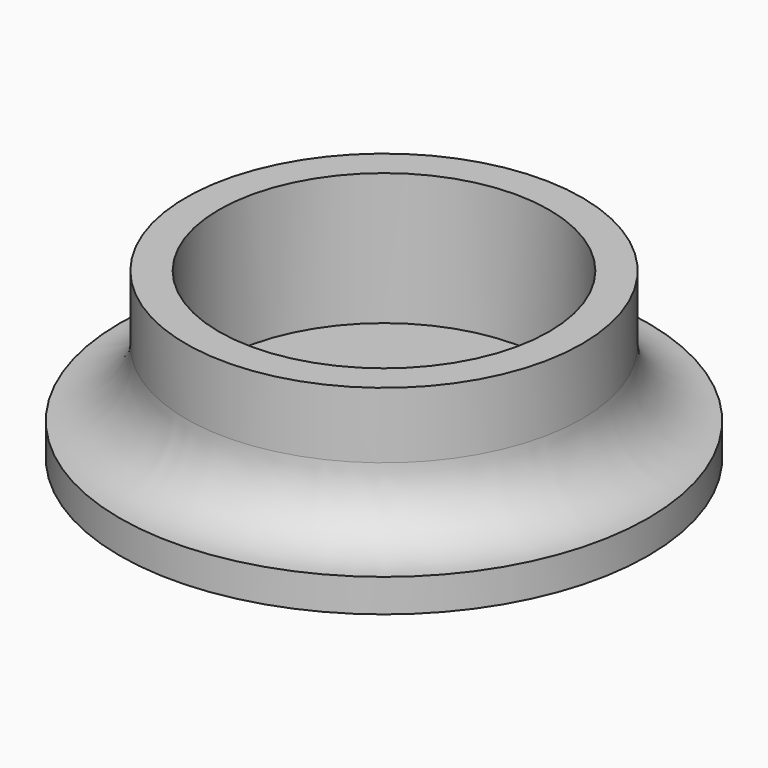
from build123d import *

# Parameters (mm, degrees)
CYLINDER_R         = 12.5
CYLINDER_DEPTH     = 10
CYLINDER001_R      = 15
CYLINDER001_DEPTH  = 10
TORUS_R            = 5
TUBE_R             = 20
TUBE_R_2           = 15
TUBE_DEPTH         = 5
CIRCLE002_R        = 4.6
EXTRUSION002_DEPTH = 1.3
CIRCLE001_R        = 2
EXTRUSION001_DEPTH = 42.073439
CIRCLE_R           = 20
EXTRUSION_DEPTH    = 2.5


with BuildPart() as cylinder:
    # Cylinder → Cylinder (new body)
    with BuildSketch(Plane.XY):
        Circle(CYLINDER_R)
    extrude(amount=CYLINDER_DEPTH)


with BuildPart() as cut:
    # Cylinder001 → Cylinder001 (new body)
    with BuildSketch(Plane.XY):
        Circle(CYLINDER001_R)
    extrude(amount=CYLINDER001_DEPTH)

    # Cut: cut Cylinder
    add(cylinder.part, mode=Mode.SUBTRACT)


with BuildPart() as torus:
    # Torus → Torus (revolve)
    with BuildSketch(Plane(origin=(0, 0, 5), x_dir=(1, 0, 0), z_dir=(0, -1, 0))):
        with Locations((20, 0)):
            Circle(TORUS_R)
    revolve(axis=Axis((0, 0, 5), (0, 0, 1)))


with BuildPart() as fusion:
    # Tube → Tube (new body)
    with BuildSketch(Plane.XY):
        Circle(TUBE_R)
        Circle(TUBE_R_2, mode=Mode.SUBTRACT)
    extrude(amount=TUBE_DEPTH)

    # Cut001: cut Torus
    add(torus.part, mode=Mode.SUBTRACT)

    # Fusion: union Cut
    add(cut.part)


with BuildPart() as cone:
    # Cone → Cone (revolve)
    with BuildSketch(Plane(origin=(0, 0, -2.5), x_dir=(1, 0, 0), z_dir=(0, -1, 0))):
        Polygon((0, 0), (2, 0), (3, 1.2), (0, 1.2), align=None)
    revolve(axis=Axis((0, 0, -2.5), (0, 0, 1)))


with BuildPart() as extrusion002:
    # Circle002 → Extrusion002 (new body)
    with BuildSketch(Plane.XY):
        Circle(CIRCLE002_R)
    extrude(amount=-EXTRUSION002_DEPTH)


with BuildPart() as extrusion001:
    # Circle001 → Extrusion001 (new body)
    with BuildSketch(Plane(origin=(0, 0, -2.5), x_dir=(1, 0, 0), z_dir=(0, 0, -1))):
        Circle(CIRCLE001_R)
    extrude(amount=-EXTRUSION001_DEPTH)


with BuildPart() as fusion001001:
    # Circle → Extrusion (new body)
    with BuildSketch(Plane(origin=(0, 0, 0), x_dir=(1, 0, 0), z_dir=(0, 0, -1))):
        Circle(CIRCLE_R)
    extrude(amount=EXTRUSION_DEPTH)

    # Cut002: cut Extrusion001
    add(extrusion001.part, mode=Mode.SUBTRACT)

    # Cut003: cut Extrusion002
    add(extrusion002.part, mode=Mode.SUBTRACT)

    # Cut004: cut Cone
    add(cone.part, mode=Mode.SUBTRACT)

    # Fusion001: union Fusion
    add(fusion.part)


with BuildPart() as fusion001001_1:
    # Fusion001001 placement: moved
    add(fusion001001.part.moved(Location((-49.230581, 0, 0))))


solid = fusion001001_1.part
